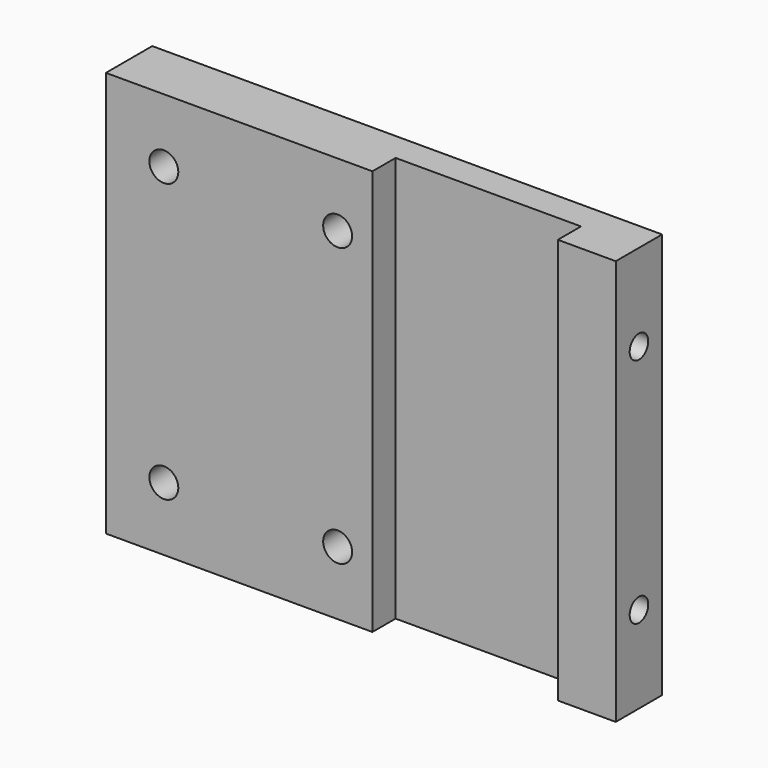
from build123d import *

# Parameters (mm, degrees)
F0_W     = 88
F0_H     = 70
F1_DEPTH = 10
F2_W     = 32
F2_H     = 70
F3_DEPTH = 5
F2_R     = 2.5
F4_DEPTH = 10.001
F5_R     = 2
F6_DEPTH = 12


with BuildPart() as f1:
    # F0 (on Front) → F1 (new body)
    with BuildSketch(Plane.XZ):
        with Locations((-68.961055, 46.389333)):
            Rectangle(F0_W, F0_H)
    extrude(amount=F1_DEPTH)

    # F2 (on face) → F3 (cut)
    with BuildSketch(Plane.XZ.offset(10)):
        with Locations((-50.961055, 46.389333)):
            Rectangle(F2_W, F2_H)
    extrude(amount=-F3_DEPTH, mode=Mode.SUBTRACT)

    # F2 (on face) → F4 (cut, through all)
    with BuildSketch(Plane.XZ.offset(10)):
        with Locations((-102.961055, 70.389333)):
            Circle(F2_R)
        with Locations((-72.961055, 70.389333)):
            Circle(F2_R)
        with Locations((-102.961055, 22.389333)):
            Circle(F2_R)
        with Locations((-72.961055, 22.389333)):
            Circle(F2_R)
    extrude(amount=-F4_DEPTH, mode=Mode.SUBTRACT)

    # F5 (on face) → F6 (cut)
    with BuildSketch(Plane.YZ.offset(-24.961055)):
        with Locations((-5, 26.389333)):
            Circle(F5_R)
        with Locations((-5, 66.389333)):
            Circle(F5_R)
    extrude(amount=-F6_DEPTH, mode=Mode.SUBTRACT)


solid = f1.part
